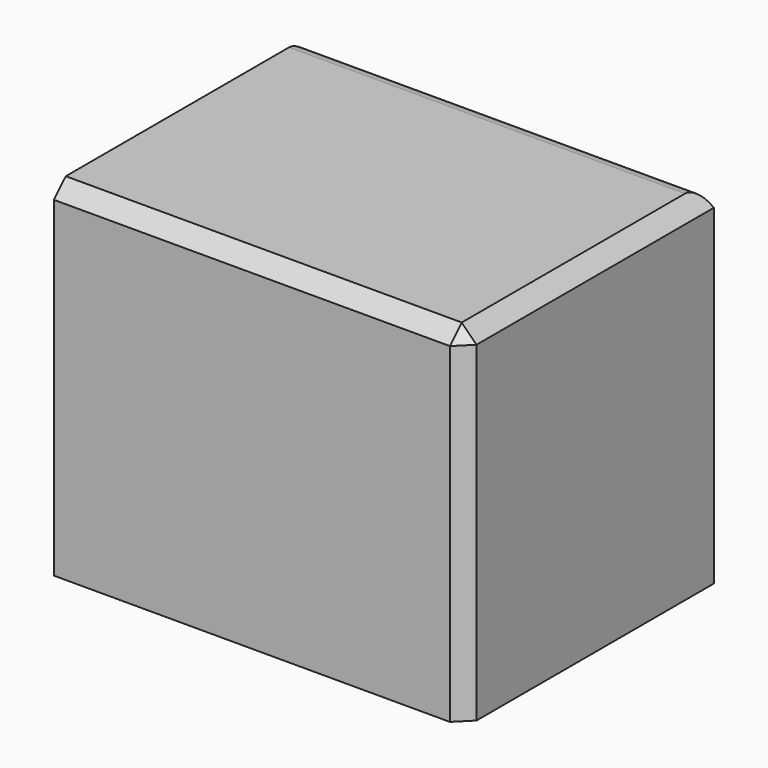
from build123d import *

# Parameters (mm, degrees)
F0_W     = 138.88222
F0_H     = 116.872258
F1_DEPTH = 105.4
F2_SIZE  = 5
F3_R     = 6


with BuildPart() as f1:
    # F0 (on Front) → F1 (new body)
    with BuildSketch(Plane.XZ):
        Rectangle(F0_W, F0_H)
    extrude(amount=F1_DEPTH)

    # F2
    f2_edges = [f1.edges().sort_by_distance(p)[0] for p in [
        (69.44111, -52.7, 58.436129),
        (0, -105.4, 58.436129),
        (69.44111, -105.4, 0),
    ]]
    chamfer(f2_edges, length=F2_SIZE)

    # F3
    f3_edges = [f1.edges().sort_by_distance(p)[0] for p in [
        (-69.44111, 0, 0),
        (-2.5, 0, 58.436129),
    ]]
    fillet(f3_edges, radius=F3_R)


solid = f1.part
